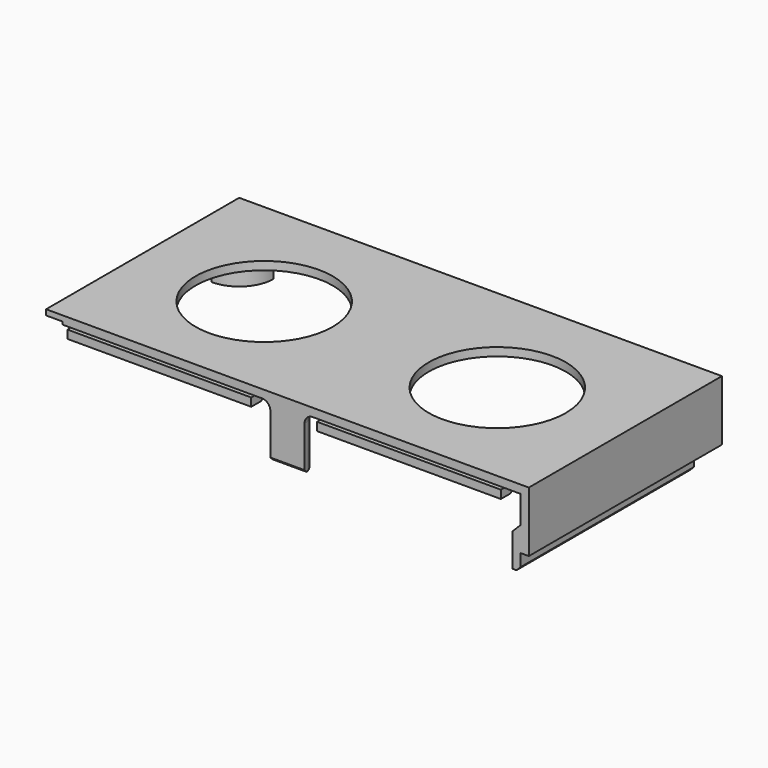
from build123d import *

# Parameters (mm, degrees)
SKETCH063_W          = 88
SKETCH063_H          = 3
PAD030_DEPTH         = 176
SKETCH064_R          = 25
POCKET030_DEPTH      = 100
POCKET030_DEPTH_BACK = 100
PAD031_DEPTH         = 19
SKETCH066_W          = 139
SKETCH066_H          = 6
SKETCH066_W_2        = 6
SKETCH066_H_2        = 69.5
POCKET031_DEPTH      = 20
SKETCH067_W          = 3
SKETCH067_H          = 88
PAD032_DEPTH         = 19
SKETCH068_W          = 3
SKETCH068_H          = 79
PAD033_DEPTH         = 6
PAD033_DEPTH_BACK    = 6
CHAMFER009_SIZE      = 2.99
CHAMFER010_SIZE      = 1.5
FILLET017_R          = 2.99
SKETCH087_W          = 67
SKETCH087_H          = 4.5
PAD038_DEPTH         = 3
CHAMFER012_SIZE      = 2.99
CHAMFER014_SIZE      = 1


with BuildPart() as part:
    # Sketch063 → Pad030 (new body)
    with BuildSketch(Plane.YZ):
        with Locations((-44, 20.5)):
            Rectangle(SKETCH063_W, SKETCH063_H)
    extrude(amount=PAD030_DEPTH)

    # Sketch064 → Pocket030 (cut, two sides)
    with BuildSketch(Plane.XY) as pocket030_sk:
        with Locations((45.5, -45.5)):
            Circle(SKETCH064_R)
        with Locations((130.5, -45.5)):
            Circle(SKETCH064_R)
    extrude(amount=-POCKET030_DEPTH, mode=Mode.SUBTRACT)
    extrude(pocket030_sk.sketch, amount=POCKET030_DEPTH_BACK, mode=Mode.SUBTRACT)

    # Sketch065 → Pad031 (join)
    with BuildSketch(Plane.XY):
        with BuildLine():
            ThreePointArc((0, -12.5), (8.838835, -8.838835), (12.5, 0))
            Line((0, 0), (12.5, 0))
            Line((0, -12.5), (0, 0))
        make_face()
        with BuildLine():
            ThreePointArc((163.5, 0), (169.75, -6.25), (176, 0))
            Line((163.5, 0), (176, 0))
        make_face()
        with BuildLine():
            ThreePointArc((94.25, -88), (88, -81.75), (81.75, -88))
            Line((81.75, -88), (94.25, -88))
        make_face()
    extrude(amount=PAD031_DEPTH)

    # Sketch066 → Pocket031 (cut)
    with BuildSketch(Plane.XY):
        with Locations((88, -3)):
            Rectangle(SKETCH066_W, SKETCH066_H)
        with Locations((3, -53.25)):
            Rectangle(SKETCH066_W_2, SKETCH066_H_2)
    extrude(amount=POCKET031_DEPTH, mode=Mode.SUBTRACT)

    # Sketch067 → Pad032 (join)
    with BuildSketch(Plane.XY):
        with Locations((174.5, -44)):
            Rectangle(SKETCH067_W, SKETCH067_H)
    extrude(amount=PAD032_DEPTH)

    # Sketch068 → Pad033 (join, two sides)
    with BuildSketch(Plane.XY) as pad033_sk:
        with Locations((171.5, -48.5)):
            Rectangle(SKETCH068_W, SKETCH068_H)
    extrude(amount=PAD033_DEPTH)
    extrude(pad033_sk.sketch, amount=-PAD033_DEPTH_BACK)

    # Chamfer009
    chamfer009_edges = [part.edges().sort_by_distance(p)[0] for p in [
        (173, -48.5, 6),
    ]]
    chamfer(chamfer009_edges, length=CHAMFER009_SIZE)

    # Chamfer010
    chamfer010_edges = [part.edges().sort_by_distance(p)[0] for p in [
        (173, -48.5, -6),
    ]]
    chamfer(chamfer010_edges, length=CHAMFER010_SIZE)

    # Fillet017
    fillet017_edges = [part.edges().sort_by_distance(p)[0] for p in [
        (166.688138, -5.448624, 19),
        (88, -81.75, 19),
        (8.838835, -8.838835, 19),
    ]]
    fillet(fillet017_edges, radius=FILLET017_R)

    # Sketch087 → Pad038 (join)
    with BuildSketch(Plane.XY.offset(19)):
        with Locations((42.5, -87.25)):
            Rectangle(SKETCH087_W, SKETCH087_H)
        with Locations((133.5, -87.25)):
            Rectangle(SKETCH087_W, SKETCH087_H)
    extrude(amount=-PAD038_DEPTH)

    # Chamfer012
    chamfer012_edges = [part.edges().sort_by_distance(p)[0] for p in [
        (133.5, -85, 19),
        (42.5, -85, 19),
    ]]
    chamfer(chamfer012_edges, length=CHAMFER012_SIZE)

    # Chamfer014
    chamfer014_edges = [part.edges().sort_by_distance(p)[0] for p in [
        (88, -88, 0),
    ]]
    chamfer(chamfer014_edges, length=CHAMFER014_SIZE)


solid = part.part
